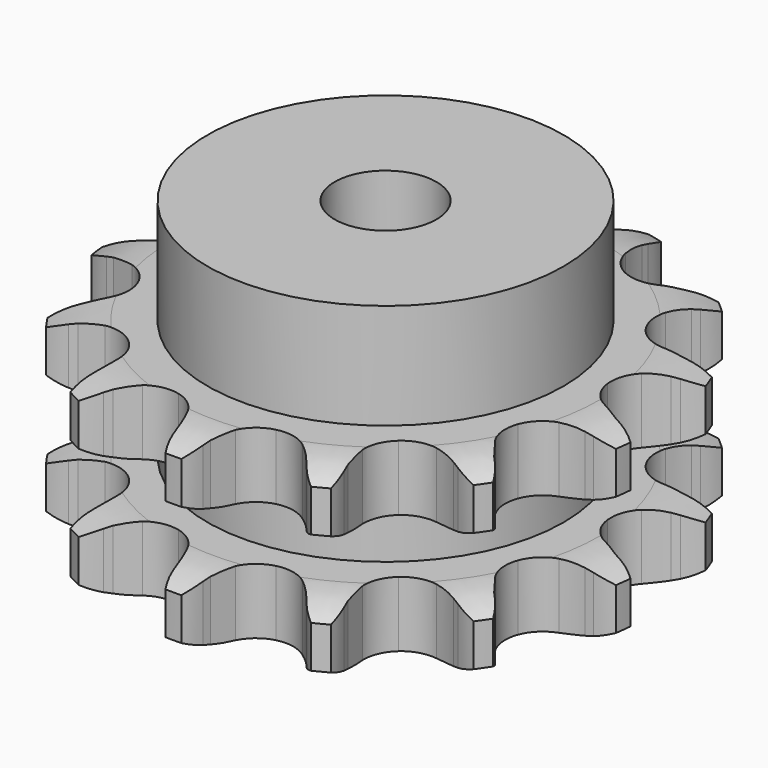
from build123d import *

# Parameters (mm, degrees)
PAD_DEPTH         = 25.5
SKETCH001_R       = 24.5
PAD001_DEPTH      = 40
SKETCH002_R       = 7
POCKET_DEPTH      = 0.001
POCKET_DEPTH_BACK = 40.001


with BuildPart() as part:
    # Sprocket → Pad (new body)
    with BuildSketch(Plane.XY):
        with BuildLine():
            ThreePointArc((-9.088284, 36.87262), (-7.385522, 35.381156), (-6.134724, 33.494528))
            Line((-6.134724, 33.494528), (-5.674805, 32.548331))
            ThreePointArc((-5.674805, 32.548331), (-4.898099, 31.166865), (-3.962254, 29.887836))
            ThreePointArc((-3.962254, 29.887836), (-2.189371, 28.513218), (0, 28.02399))
            ThreePointArc((0, 28.02399), (2.189371, 28.513218), (3.962254, 29.887836))
            ThreePointArc((3.962254, 29.887836), (4.898099, 31.166865), (5.674805, 32.548331))
            Line((5.674805, 32.548331), (6.134724, 33.494528))
            ThreePointArc((6.134724, 33.494528), (7.385522, 35.381156), (9.088284, 36.87262))
            ThreePointArc((9.088284, 36.87262), (9.902888, 34.760681), (10.133654, 32.50888))
            Line((10.133654, 32.50888), (10.101173, 31.457329))
            ThreePointArc((10.101173, 31.457329), (10.146914, 29.873149), (10.381168, 28.305716))
            ThreePointArc((10.381168, 28.305716), (11.312162, 26.264653), (13.023398, 24.814011))
            ThreePointArc((13.023398, 24.814011), (15.189345, 24.22975), (17.397972, 24.623013))
            Line((17.397972, 24.623013), (20.150754, 26.182903))
            ThreePointArc((20.150754, 26.182903), (20.568047, 26.503338), (20.997712, 26.806983))
            ThreePointArc((20.997712, 26.806983), (22.981998, 27.896235), (25.182837, 28.425547))
            ThreePointArc((25.182837, 28.425547), (24.922666, 26.176953), (24.080535, 24.07584))
            Line((24.080535, 24.07584), (23.563095, 23.159832))
            ThreePointArc((23.563095, 23.159832), (22.86739, 21.735854), (22.34639, 20.239097))
            ThreePointArc((22.34639, 20.239097), (22.222214, 17.999171), (23.063292, 15.919441))
            ThreePointArc((23.063292, 15.919441), (24.709623, 14.395537), (26.848024, 13.717355))
            Line((26.848024, 13.717355), (30.010408, 13.819287))
            ThreePointArc((30.010408, 13.819287), (30.528816, 13.909093), (31.050377, 13.978281))
            ThreePointArc((31.050377, 13.978281), (33.313576, 14.020622), (35.508305, 13.466524))
            ThreePointArc((35.508305, 13.466524), (34.232962, 11.5964), (32.510856, 10.127315))
            Line((32.510856, 10.127315), (31.626995, 9.556697))
            ThreePointArc((31.626995, 9.556697), (30.349223, 8.619136), (29.192323, 7.535946))
            ThreePointArc((29.192323, 7.535946), (28.041426, 5.610297), (27.819664, 3.377919))
            ThreePointArc((27.819664, 3.377919), (28.569225, 1.263481), (30.147517, -0.330785))
            Line((30.147517, -0.330785), (32.995039, -1.710161))
            ThreePointArc((32.995039, -1.710161), (33.495802, -1.871558), (33.989774, -2.052676))
            ThreePointArc((33.989774, -2.052676), (36.013414, -3.066946), (37.699248, -4.577517))
            ThreePointArc((37.699248, -4.577517), (35.700898, -5.640748), (33.493331, -6.141256))
            Line((33.493331, -6.141256), (32.445532, -6.235762))
            ThreePointArc((32.445532, -6.235762), (30.878415, -6.472121), (29.350647, -6.893601))
            ThreePointArc((29.350647, -6.893601), (27.436684, -8.063829), (26.202886, -9.937444))
            ThreePointArc((26.202886, -9.937444), (25.883961, -12.158024), (26.540577, -14.303145))
            Line((26.540577, -14.303145), (28.420905, -16.847832))
            ThreePointArc((28.420905, -16.847832), (28.789303, -17.223458), (29.142524, -17.61339))
            ThreePointArc((29.142524, -17.61339), (30.463014, -19.451914), (31.253748, -21.572905))
            ThreePointArc((31.253748, -21.572905), (28.990189, -21.585669), (26.802887, -21.002939))
            Line((26.802887, -21.002939), (25.831188, -20.599684))
            ThreePointArc((25.831188, -20.599684), (24.333734, -20.080694), (22.785091, -19.743906))
            ThreePointArc((22.785091, -19.743906), (20.546529, -19.890629), (18.583343, -20.976258))
            ThreePointArc((18.583343, -20.976258), (17.268994, -22.794272), (16.853511, -24.998827))
            Line((16.853511, -24.998827), (17.335883, -28.125867))
            ThreePointArc((17.335883, -28.125867), (17.487522, -28.629671), (17.619073, -29.139089))
            ThreePointArc((17.619073, -29.139089), (17.933904, -31.380683), (17.648391, -33.626199))
            ThreePointArc((17.648391, -33.626199), (15.638177, -32.585573), (13.972226, -31.053102))
            Line((13.972226, -31.053102), (13.299231, -30.244466))
            ThreePointArc((13.299231, -30.244466), (12.214488, -29.089021), (10.999746, -28.07112))
            ThreePointArc((10.999746, -28.07112), (8.949412, -27.160725), (6.70658, -27.209664))
            ThreePointArc((6.70658, -27.209664), (4.697908, -28.208627), (3.305509, -29.967579))
            Line((3.305509, -29.967579), (2.27942, -32.960606))
            ThreePointArc((2.27942, -32.960606), (2.17956, -33.477171), (2.059305, -33.989373))
            ThreePointArc((2.059305, -33.989373), (1.296353, -36.120515), (0, -37.976137))
            ThreePointArc((0, -37.976137), (-1.296353, -36.120515), (-2.059305, -33.989373))
            Line((-2.059305, -33.989373), (-2.27942, -32.960606))
            ThreePointArc((-2.27942, -32.960606), (-2.70295, -31.433405), (-3.305509, -29.967579))
            ThreePointArc((-3.305509, -29.967579), (-4.697908, -28.208627), (-6.70658, -27.209664))
            ThreePointArc((-6.70658, -27.209664), (-8.949412, -27.160725), (-10.999746, -28.07112))
            Line((-10.999746, -28.07112), (-13.299231, -30.244466))
            ThreePointArc((-13.299231, -30.244466), (-13.627712, -30.655455), (-13.972226, -31.053102))
            ThreePointArc((-13.972226, -31.053102), (-15.638177, -32.585573), (-17.648391, -33.626199))
            ThreePointArc((-17.648391, -33.626199), (-17.933904, -31.380683), (-17.619073, -29.139089))
            Line((-17.619073, -29.139089), (-17.335883, -28.125867))
            ThreePointArc((-17.335883, -28.125867), (-17.001175, -26.576774), (-16.853511, -24.998827))
            ThreePointArc((-16.853511, -24.998827), (-17.268994, -22.794272), (-18.583343, -20.976258))
            ThreePointArc((-18.583343, -20.976258), (-20.546529, -19.890629), (-22.785091, -19.743906))
            Line((-22.785091, -19.743906), (-25.831188, -20.599684))
            ThreePointArc((-25.831188, -20.599684), (-26.313041, -20.810944), (-26.802887, -21.002939))
            ThreePointArc((-26.802887, -21.002939), (-28.990189, -21.585669), (-31.253748, -21.572905))
            ThreePointArc((-31.253748, -21.572905), (-30.463014, -19.451914), (-29.142524, -17.61339))
            Line((-29.142524, -17.61339), (-28.420905, -16.847832))
            ThreePointArc((-28.420905, -16.847832), (-27.404636, -15.631725), (-26.540577, -14.303145))
            ThreePointArc((-26.540577, -14.303145), (-25.883961, -12.158024), (-26.202886, -9.937444))
            ThreePointArc((-26.202886, -9.937444), (-27.436684, -8.063829), (-29.350647, -6.893601))
            Line((-29.350647, -6.893601), (-32.445532, -6.235762))
            ThreePointArc((-32.445532, -6.235762), (-32.970368, -6.198896), (-33.493331, -6.141256))
            ThreePointArc((-33.493331, -6.141256), (-35.700898, -5.640748), (-37.699248, -4.577517))
            ThreePointArc((-37.699248, -4.577517), (-36.013414, -3.066946), (-33.989774, -2.052676))
            Line((-33.989774, -2.052676), (-32.995039, -1.710161))
            ThreePointArc((-32.995039, -1.710161), (-31.530024, -1.105635), (-30.147517, -0.330785))
            ThreePointArc((-30.147517, -0.330785), (-28.569225, 1.263481), (-27.819664, 3.377919))
            ThreePointArc((-27.819664, 3.377919), (-28.041426, 5.610297), (-29.192323, 7.535946))
            Line((-29.192323, 7.535946), (-31.626995, 9.556697))
            ThreePointArc((-31.626995, 9.556697), (-32.074582, 9.833244), (-32.510856, 10.127315))
            ThreePointArc((-32.510856, 10.127315), (-34.232962, 11.5964), (-35.508305, 13.466524))
            ThreePointArc((-35.508305, 13.466524), (-33.313576, 14.020622), (-31.050377, 13.978281))
            Line((-31.050377, 13.978281), (-30.010408, 13.819287))
            ThreePointArc((-30.010408, 13.819287), (-28.432265, 13.673741), (-26.848024, 13.717355))
            ThreePointArc((-26.848024, 13.717355), (-24.709623, 14.395537), (-23.063292, 15.919441))
            ThreePointArc((-23.063292, 15.919441), (-22.222214, 17.999171), (-22.34639, 20.239097))
            Line((-22.34639, 20.239097), (-23.563095, 23.159832))
            ThreePointArc((-23.563095, 23.159832), (-23.830895, 23.612707), (-24.080535, 24.07584))
            ThreePointArc((-24.080535, 24.07584), (-24.922666, 26.176953), (-25.182837, 28.425547))
            ThreePointArc((-25.182837, 28.425547), (-22.981998, 27.896235), (-20.997712, 26.806983))
            Line((-20.997712, 26.806983), (-20.150754, 26.182903))
            ThreePointArc((-20.150754, 26.182903), (-18.821015, 25.320629), (-17.397972, 24.623013))
            ThreePointArc((-17.397972, 24.623013), (-15.189345, 24.22975), (-13.023398, 24.814011))
            ThreePointArc((-13.023398, 24.814011), (-11.312162, 26.264653), (-10.381168, 28.305716))
            Line((-10.381168, 28.305716), (-10.101173, 31.457329))
            ThreePointArc((-10.101173, 31.457329), (-10.127838, 31.982783), (-10.133654, 32.50888))
            ThreePointArc((-10.133654, 32.50888), (-9.902888, 34.760681), (-9.088284, 36.87262))
        make_face()
    extrude(amount=PAD_DEPTH)

    # Sketch → Groove (revolve, cut)
    with BuildSketch(Plane.XZ):
        with BuildLine():
            ThreePointArc((29.525762, 0), (33.10347, 0.405129), (36.5, 1.6))
            Line((36.5, 1.6), (36.5, 7.4))
            ThreePointArc((36.5, 7.4), (33.10347, 8.594871), (29.525762, 9))
            Line((24.5, 9), (29.525762, 9))
            Line((24.5, 16.5), (24.5, 9))
            Line((29.525762, 16.5), (24.5, 16.5))
            ThreePointArc((29.525762, 16.5), (33.10347, 16.905129), (36.5, 18.1))
            Line((36.5, 18.1), (36.5, 23.9))
            ThreePointArc((36.5, 23.9), (33.10347, 25.094871), (29.525762, 25.5))
            Line((29.525762, 25.5), (39.525762, 25.5))
            Line((39.525762, 25.5), (39.525762, 0))
            Line((29.525762, 0), (39.525762, 0))
        make_face()
    revolve(axis=Axis((0, 0, 0), (0, 0, 1)), mode=Mode.SUBTRACT)

    # Sketch001 → Pad001 (join)
    with BuildSketch(Plane.XY):
        Circle(SKETCH001_R)
    extrude(amount=PAD001_DEPTH)

    # Sketch002 → Pocket (cut, two sides)
    with BuildSketch(Plane.XY) as pocket_sk:
        Circle(SKETCH002_R)
    extrude(amount=-POCKET_DEPTH, mode=Mode.SUBTRACT)
    extrude(pocket_sk.sketch, amount=POCKET_DEPTH_BACK, mode=Mode.SUBTRACT)


solid = part.part
